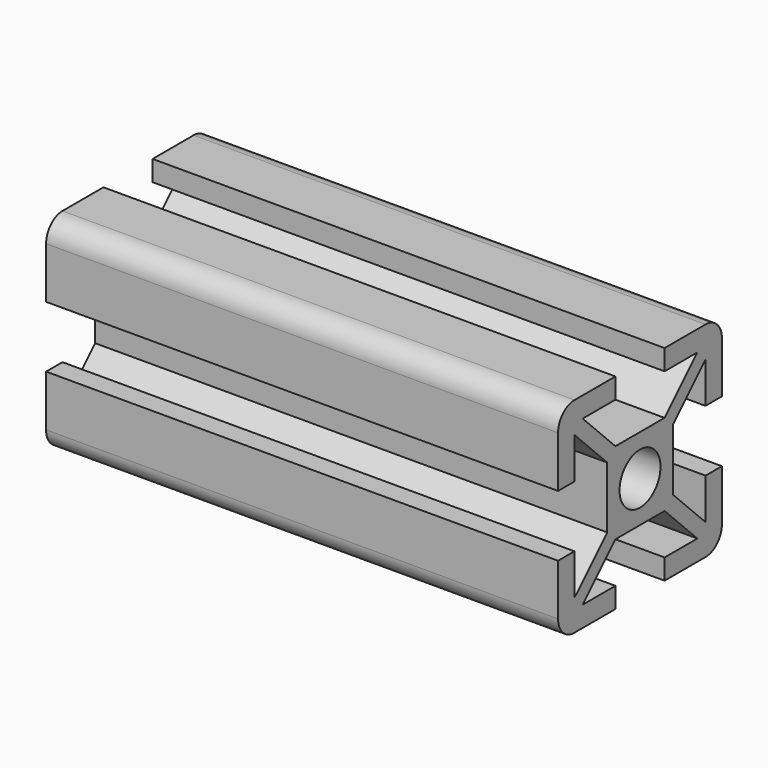
from build123d import *

# Parameters (mm, degrees)
SKETCH_R  = 2.5
PAD_DEPTH = 50


with BuildPart() as part:
    # Sketch → Pad (new body)
    with BuildSketch(Plane.YZ):
        with BuildLine():
            ThreePointArc((-8, 10), (-9.414214, 9.414214), (-10, 8))
            Line((-10, 8), (-10, 3))
            Line((-8, 3), (-10, 3))
            Line((-8, 3), (-8, 7))
            Line((-4, 3), (-8, 7))
            Line((-4, -3), (-4, 3))
            Line((-8, -7), (-4, -3))
            Line((-8, -7), (-8, -3))
            Line((-10, -3), (-8, -3))
            Line((-10, -3), (-10, -8))
            ThreePointArc((-10, -8), (-9.414214, -9.414214), (-8, -10))
            Line((-8, -10), (-3, -10))
            Line((-3, -10), (-3, -8))
            Line((-3, -8), (-7, -8))
            Line((-3, -4), (-7, -8))
            Line((3, -4), (-3, -4))
            Line((3, -4), (7, -8))
            Line((3, -8), (7, -8))
            Line((3, -10), (3, -8))
            Line((3, -10), (8, -10))
            ThreePointArc((8, -10), (9.414214, -9.414214), (10, -8))
            Line((10, -8), (10, -3))
            Line((10, -3), (8, -3))
            Line((8, -7), (8, -3))
            Line((4, -3), (8, -7))
            Line((4, 3), (4, -3))
            Line((4, 3), (8, 7))
            Line((8, 7), (8, 3))
            Line((8, 3), (10, 3))
            Line((10, 3), (10, 8))
            ThreePointArc((10, 8), (9.414214, 9.414214), (8, 10))
            Line((3, 10), (8, 10))
            Line((3, 10), (3, 8))
            Line((3, 8), (7, 8))
            Line((7, 8), (3, 4))
            Line((-3, 4), (3, 4))
            Line((-3, 4), (-7, 8))
            Line((-7, 8), (-3, 8))
            Line((-3, 8), (-3, 10))
            Line((-8, 10), (-3, 10))
        make_face()
        Circle(SKETCH_R, mode=Mode.SUBTRACT)
    extrude(amount=PAD_DEPTH)


solid = part.part
